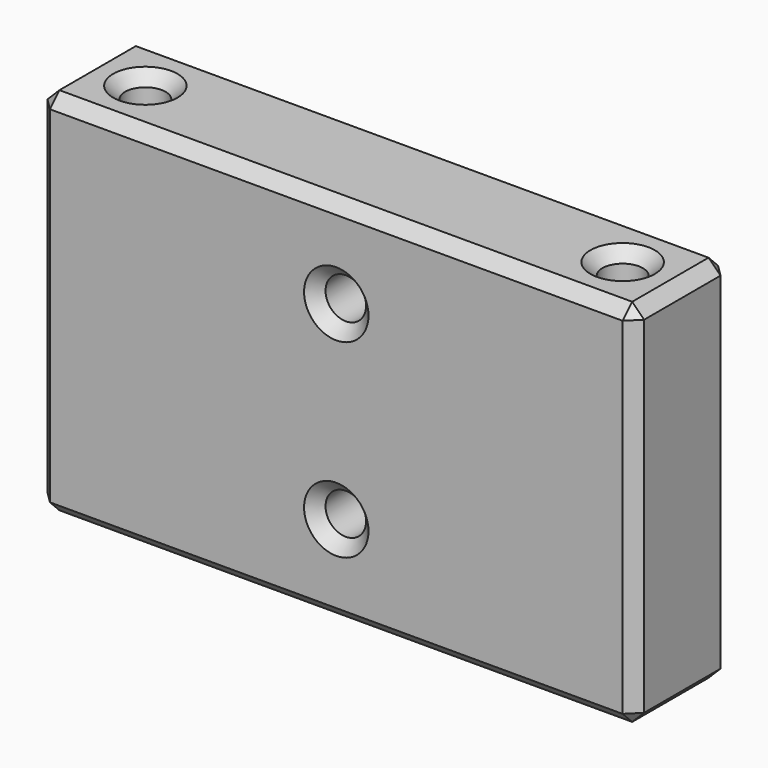
from build123d import *

# Parameters (mm, degrees)
SKETCH_R        = 1.7
PAD_DEPTH       = 31
SKETCH001_R     = 1.7
POCKET_DEPTH    = 18
CHAMFER_SIZE    = 1
CHAMFER001_SIZE = 1
CHAMFER002_SIZE = 1


with BuildPart() as part:
    # Sketch → Pad (new body)
    with BuildSketch(Plane.XY):
        Polygon((25, 0), (25, 5), (-25, 5), (-25, 0), (-25, -5), (25, -5), align=None)
        with Locations((-20, 0)):
            Circle(SKETCH_R, mode=Mode.SUBTRACT)
        with Locations((20, 0)):
            Circle(SKETCH_R, mode=Mode.SUBTRACT)
    extrude(amount=PAD_DEPTH)

    # Sketch001 (on Face3 of Pad) → Pocket (cut)
    with BuildSketch(Plane.XZ.offset(5)):
        with Locations((0, 23.45)):
            Circle(SKETCH001_R)
        with Locations((0, 7.55)):
            Circle(SKETCH001_R)
    extrude(amount=-POCKET_DEPTH, mode=Mode.SUBTRACT)

    # Chamfer
    chamfer_edges = [part.edges().sort_by_distance(p)[0] for p in [
        (-21.7, 0, 31),
        (18.3, 0, 31),
        (-21.7, 0, 0),
        (18.3, 0, 0),
    ]]
    chamfer(chamfer_edges, length=CHAMFER_SIZE)

    # Chamfer001
    chamfer001_edges = [part.edges().sort_by_distance(p)[0] for p in [
        (-1.7, -5, 23.45),
        (-1.7, -5, 7.55),
        (-1.7, 5, 7.55),
        (-1.7, 5, 23.45),
    ]]
    chamfer(chamfer001_edges, length=CHAMFER001_SIZE)

    # Chamfer002
    chamfer002_edges = [part.edges().sort_by_distance(p)[0] for p in [
        (25, 5, 15.5),
        (25, -5, 15.5),
        (-25, -5, 15.5),
        (-25, 5, 15.5),
        (0, 5, 31),
        (0, -5, 31),
        (-25, 0, 31),
        (25, 0, 31),
        (25, 0, 0),
        (0, -5, 0),
        (0, 5, 0),
        (-25, 0, 0),
    ]]
    chamfer(chamfer002_edges, length=CHAMFER002_SIZE)


solid = part.part
